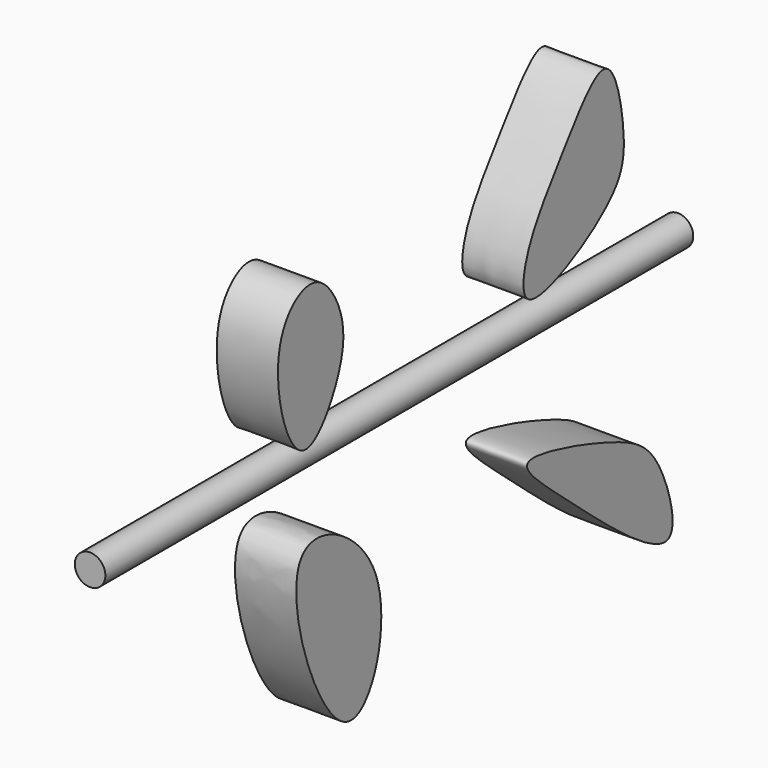
from build123d import *

# Parameters (mm, degrees)
F0_R     = 6.35
F1_DEPTH = 152.4
F3_DEPTH = 25.4


with BuildPart() as f1:
    # F0 (on Front) → F1 (new body, symmetric)
    with BuildSketch(Plane.XZ):
        Circle(F0_R)
    extrude(amount=F1_DEPTH, both=True)


with BuildPart() as f3:
    # F2 (on Right) → F3 (new body)
    with BuildSketch(Plane.YZ):
        with BuildLine():
            add(Edge.make_bspline(
                [(-74.7478604317, -19.165828824), (-67.543963754, -8.4592979949), (-18.3137087683, -33.7110615613), (-50.5024670852, -127.7795498173), (-84.0349850647, -32.9684818389), (-74.7478604317, -19.165828824)],
                knots=[0, 0, 0, 0, 0.2981390278, 0.6156449164, 1, 1, 1, 1], degree=3))
        make_face()
    extrude(amount=F3_DEPTH)


with BuildPart() as f3b:
    # F2 (on Right) → F3, piece 2 (new body)
    with BuildSketch(Plane.YZ):
        with BuildLine():
            add(Edge.make_bspline(
                [(-73.7361013889, 19.8565125465), (-67.1349605052, 18.0275633062), (-52.2817218665, 40.6813889341), (-51.7821425789, 62.8920057763), (-67.7840402884, 85.7352669502), (-94.3090395178, 65.1475434439), (-82.2747202066, 22.2222703262), (-73.7361013889, 19.8565125465)],
                knots=[0, 0, 0, 0, 0.196378438, 0.385731711, 0.5589595768, 0.7459832087, 1, 1, 1, 1], degree=3))
        make_face()
    extrude(amount=F3_DEPTH)


with BuildPart() as f3c:
    # F2 (on Right) → F3, piece 3 (new body)
    with BuildSketch(Plane.YZ):
        with BuildLine():
            add(Edge.make_bspline(
                [(43.0328398943, -31.9430530071), (39.6933188562, -34.0603080097), (65.1432908186, -55.2339532183), (126.7173996854, -108.9879069683), (111.8559161781, -55.0051329355), (91.5139995637, -42.3564199815), (47.0742029406, -29.380830452), (43.0328398943, -31.9430530071)],
                knots=[0, 0, 0, 0, 0.1780901512, 0.4333573485, 0.6050301651, 0.7844819818, 1, 1, 1, 1], degree=3))
        make_face()
    extrude(amount=F3_DEPTH)


with BuildPart() as f3d:
    # F2 (on Right) → F3, piece 4 (new body)
    with BuildSketch(Plane.YZ):
        with BuildLine():
            add(Edge.make_bspline(
                [(44.0692454576, 27.1084457636), (51.7624225538, 24.0138978491), (90.2159573803, 44.4490463323), (94.4832694289, 65.3857422379), (85.581037687, 108.7911322418), (59.898494301, 72.1778656606), (40.948545041, 47.472712624), (39.3865995439, 28.9920202564), (44.0692454576, 27.1084457636)],
                knots=[0, 0, 0, 0, 0.204166163, 0.3566600236, 0.5208858337, 0.6881278884, 0.875729125, 1, 1, 1, 1], degree=3))
        make_face()
    extrude(amount=F3_DEPTH)


solid = Compound([f1.part, f3.part, f3b.part, f3c.part, f3d.part])
